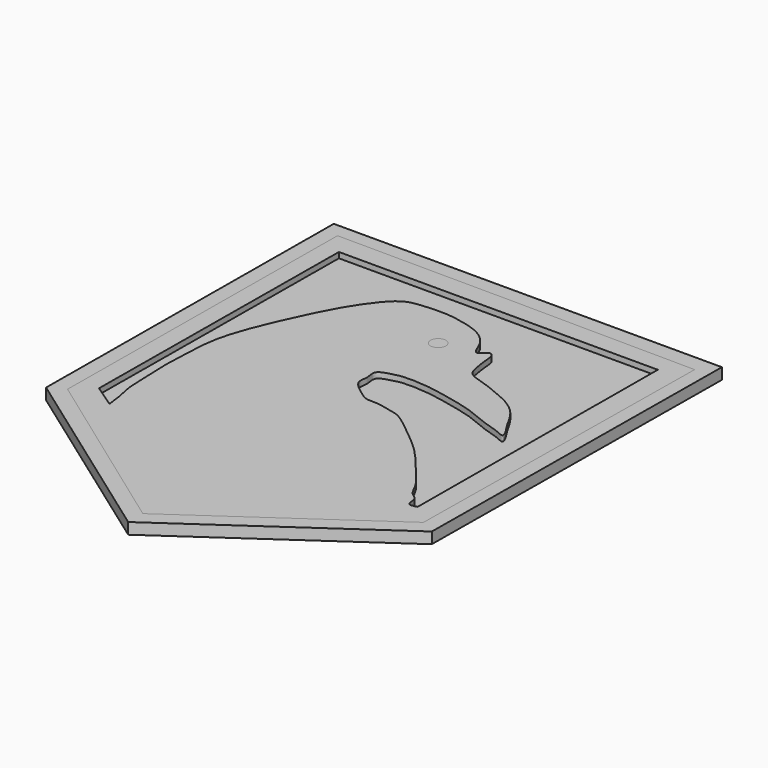
from build123d import *

# Parameters (mm, degrees)
F0_R          = 2.1795318168
F1_DEPTH      = 1.5875
F2_DEPTH      = 1.5875
F2_DEPTH_BACK = 1.5875
F3_DEPTH      = 1.5875


with BuildPart() as f1:
    # F0 (on Top) → F1 (new body)
    with BuildSketch(Plane.XY):
        Polygon((-50.3651574254, -33.8113792241), (0, -70.051394403), (51.246492301, -34.4496226662), (52.3734651506, 60.4217760265), (0, 60.8911067247), (-49.6614918586, 61.1687560072), align=None)
        with BuildLine():
            Line((-45.202549547, -29.1180983186), (-44.5427596569, 55.259168148))
            Line((-44.5427596569, 55.259168148), (46.0375323892, 55.259168148))
            Line((46.0375323892, 55.259168148), (45.5639190219, -29.4532653738))
            add(Edge.make_bspline(
                [(-38.6826857704, -33.5422889551), (-38.8005919951, -32.152333145), (-39.3190666894, -28.4001030407), (-40.458986062, -24.4648690423), (-40.3415890642, -18.1733101715), (-40.9183755939, -11.9130637335), (-40.4347817326, -4.5104804398), (-40.2323746663, 5.8855581119), (-35.4589579851, 18.3600766524), (-30.8090924237, 28.5143685896), (-26.1511375543, 37.3625815436), (-21.326285493, 43.6165630981), (-18.724708911, 45.6332968272), (-15.8838176848, 46.6922076089), (-8.1011849388, 47.0718973202), (-4.0858770947, 46.5594286988), (2.8225980893, 45.0105253753), (6.3144319535, 42.0973588461), (7.8287139265, 39.748347479), (9.2294731463, 35.6553229412), (10.8743136164, 37.6085550022), (12.0225097961, 38.4943340404), (13.3479022089, 37.5653191042), (13.3715800674, 34.3099889673), (13.9619682203, 31.5135151576), (14.49894751, 27.4127109388), (20.2259021037, 26.1834186317), (25.3837105646, 23.9174969132), (28.9575676961, 22.4410774738), (32.6550362587, 19.8369358132), (34.8754414, 16.739806202), (36.6022860384, 13.300207568), (38.2913501601, 11.1136102745), (39.3514316739, 8.4671586804), (36.3135586081, 10.2051615681), (31.5875439543, 11.3036863038), (25.9459551537, 14.122738383), (18.50436079, 15.7050278371), (11.5315427137, 17.3272768705), (3.9940245113, 17.5327188025), (2.0096945575, 16.8963246673), (-3.1049921049, 15.7997028655), (-1.5534355906, 12.0664641504), (-3.077392463, 8.8573955539), (2.32606889, 5.0937685161), (4.1247435993, 3.6892794075), (7.9351362929, 3.9540092163), (11.4034988126, 2.9180907782), (14.8640986212, 2.5445259727), (20.8627983724, -2.5114632381), (24.685658913, -5.5360118841), (29.0984890378, -9.5660449629), (32.8872286705, -14.2921612303), (36.205947736, -18.3030826101), (38.9297067869, -21.5772714854), (40.5229546306, -25.6735059901), (43.0468301685, -26.3037232438), (42.6762071907, -30.1945262959), (44.6285448232, -29.693134129), (45.5639190219, -29.4532653738)],
                knots=[0.0034531043, 0.0034531043, 0.0034531043, 0.0034531043, 0.0193582255, 0.0369631695, 0.0572415379, 0.0778968764, 0.1000700972, 0.1265340647, 0.1565723956, 0.1842511377, 0.2104853213, 0.2332896626, 0.2475332941, 0.2616890997, 0.2842362014, 0.3016358652, 0.3231224183, 0.3402928288, 0.3546668618, 0.369497947, 0.3801744787, 0.3897749477, 0.398650021, 0.413090828, 0.4275294859, 0.4428772181, 0.4619068661, 0.4816944601, 0.4978910362, 0.5150627718, 0.531186086, 0.5471742061, 0.5615520926, 0.5722665886, 0.5845055252, 0.6032397803, 0.6238994992, 0.6464272271, 0.6691449977, 0.6909603903, 0.7036668442, 0.7203035471, 0.7346529126, 0.7490034948, 0.7688164451, 0.7815841553, 0.7970220103, 0.8125935185, 0.8277858316, 0.8503798741, 0.8690626388, 0.8888735863, 0.9092721906, 0.9279561378, 0.9451270911, 0.9617809996, 0.9738625672, 0.9875494414, 1, 1, 1, 1], degree=3))
            Line((-38.6826857704, -33.5422889551), (-45.202549547, -29.1180983186))
        make_face(mode=Mode.SUBTRACT)
        with Locations((0, 34.8298922181)):
            Circle(F0_R, mode=Mode.SUBTRACT)
        with BuildLine():
            Line((46.0375323892, 55.259168148), (-44.5427596569, 55.259168148))
            Line((-44.5427596569, 55.259168148), (-45.202549547, -29.1180983186))
            Line((-45.202549547, -29.1180983186), (-38.6826857704, -33.5422889551))
            add(Edge.make_bspline(
                [(-38.6826857704, -33.5422889551), (-38.8005919951, -32.152333145), (-39.3190666894, -28.4001030407), (-40.458986062, -24.4648690423), (-40.3415890642, -18.1733101715), (-40.9183755939, -11.9130637335), (-40.4347817326, -4.5104804398), (-40.2323746663, 5.8855581119), (-35.4589579851, 18.3600766524), (-30.8090924237, 28.5143685896), (-26.1511375543, 37.3625815436), (-21.326285493, 43.6165630981), (-18.724708911, 45.6332968272), (-15.8838176848, 46.6922076089), (-8.1011849388, 47.0718973202), (-4.0858770947, 46.5594286988), (2.8225980893, 45.0105253753), (6.3144319535, 42.0973588461), (7.8287139265, 39.748347479), (9.2294731463, 35.6553229412), (10.8743136164, 37.6085550022), (12.0225097961, 38.4943340404), (13.3479022089, 37.5653191042), (13.3715800674, 34.3099889673), (13.9619682203, 31.5135151576), (14.49894751, 27.4127109388), (20.2259021037, 26.1834186317), (25.3837105646, 23.9174969132), (28.9575676961, 22.4410774738), (32.6550362587, 19.8369358132), (34.8754414, 16.739806202), (36.6022860384, 13.300207568), (38.2913501601, 11.1136102745), (39.3514316739, 8.4671586804), (36.3135586081, 10.2051615681), (31.5875439543, 11.3036863038), (25.9459551537, 14.122738383), (18.50436079, 15.7050278371), (11.5315427137, 17.3272768705), (3.9940245113, 17.5327188025), (2.0096945575, 16.8963246673), (-3.1049921049, 15.7997028655), (-1.5534355906, 12.0664641504), (-3.077392463, 8.8573955539), (2.32606889, 5.0937685161), (4.1247435993, 3.6892794075), (7.9351362929, 3.9540092163), (11.4034988126, 2.9180907782), (14.8640986212, 2.5445259727), (20.8627983724, -2.5114632381), (24.685658913, -5.5360118841), (29.0984890378, -9.5660449629), (32.8872286705, -14.2921612303), (36.205947736, -18.3030826101), (38.9297067869, -21.5772714854), (40.5229546306, -25.6735059901), (43.0468301685, -26.3037232438), (42.6762071907, -30.1945262959), (44.6285448232, -29.693134129), (45.5639190219, -29.4532653738)],
                knots=[0.0034531043, 0.0034531043, 0.0034531043, 0.0034531043, 0.0193582255, 0.0369631695, 0.0572415379, 0.0778968764, 0.1000700972, 0.1265340647, 0.1565723956, 0.1842511377, 0.2104853213, 0.2332896626, 0.2475332941, 0.2616890997, 0.2842362014, 0.3016358652, 0.3231224183, 0.3402928288, 0.3546668618, 0.369497947, 0.3801744787, 0.3897749477, 0.398650021, 0.413090828, 0.4275294859, 0.4428772181, 0.4619068661, 0.4816944601, 0.4978910362, 0.5150627718, 0.531186086, 0.5471742061, 0.5615520926, 0.5722665886, 0.5845055252, 0.6032397803, 0.6238994992, 0.6464272271, 0.6691449977, 0.6909603903, 0.7036668442, 0.7203035471, 0.7346529126, 0.7490034948, 0.7688164451, 0.7815841553, 0.7970220103, 0.8125935185, 0.8277858316, 0.8503798741, 0.8690626388, 0.8888735863, 0.9092721906, 0.9279561378, 0.9451270911, 0.9617809996, 0.9738625672, 0.9875494414, 1, 1, 1, 1], degree=3))
            Line((45.5639190219, -29.4532653738), (46.0375323892, 55.259168148))
        make_face()
    extrude(amount=-F1_DEPTH)

    # F0 (on Top) → F2 (join, two sides)
    with BuildSketch(Plane.XY) as f2_sk:
        Polygon((56.3627555966, 65.115056932), (0, 65.115056932), (-53.8851171732, 65.115056932), (-54.5891076326, -36.1580178142), (0, -75.2331282679), (55.4240942001, -36.7291085422), align=None)
        Polygon((51.246492301, -34.4496226662), (0, -70.051394403), (-50.3651574254, -33.8113792241), (-49.6614918586, 61.1687560072), (0, 60.8911067247), (52.3734651506, 60.4217760265), align=None, mode=Mode.SUBTRACT)
        with Locations((0, 34.8298922181)):
            Circle(F0_R)
    extrude(amount=F2_DEPTH)
    extrude(f2_sk.sketch, amount=-F2_DEPTH_BACK)


with BuildPart() as f3:
    # F0 (on Top) → F3 (new body)
    with BuildSketch(Plane.XY):
        Polygon((-50.3651574254, -33.8113792241), (0, -70.051394403), (51.246492301, -34.4496226662), (52.3734651506, 60.4217760265), (0, 60.8911067247), (-49.6614918586, 61.1687560072), align=None)
        with BuildLine():
            Line((-45.202549547, -29.1180983186), (-44.5427596569, 55.259168148))
            Line((-44.5427596569, 55.259168148), (46.0375323892, 55.259168148))
            Line((46.0375323892, 55.259168148), (45.5639190219, -29.4532653738))
            add(Edge.make_bspline(
                [(-38.6826857704, -33.5422889551), (-38.8005919951, -32.152333145), (-39.3190666894, -28.4001030407), (-40.458986062, -24.4648690423), (-40.3415890642, -18.1733101715), (-40.9183755939, -11.9130637335), (-40.4347817326, -4.5104804398), (-40.2323746663, 5.8855581119), (-35.4589579851, 18.3600766524), (-30.8090924237, 28.5143685896), (-26.1511375543, 37.3625815436), (-21.326285493, 43.6165630981), (-18.724708911, 45.6332968272), (-15.8838176848, 46.6922076089), (-8.1011849388, 47.0718973202), (-4.0858770947, 46.5594286988), (2.8225980893, 45.0105253753), (6.3144319535, 42.0973588461), (7.8287139265, 39.748347479), (9.2294731463, 35.6553229412), (10.8743136164, 37.6085550022), (12.0225097961, 38.4943340404), (13.3479022089, 37.5653191042), (13.3715800674, 34.3099889673), (13.9619682203, 31.5135151576), (14.49894751, 27.4127109388), (20.2259021037, 26.1834186317), (25.3837105646, 23.9174969132), (28.9575676961, 22.4410774738), (32.6550362587, 19.8369358132), (34.8754414, 16.739806202), (36.6022860384, 13.300207568), (38.2913501601, 11.1136102745), (39.3514316739, 8.4671586804), (36.3135586081, 10.2051615681), (31.5875439543, 11.3036863038), (25.9459551537, 14.122738383), (18.50436079, 15.7050278371), (11.5315427137, 17.3272768705), (3.9940245113, 17.5327188025), (2.0096945575, 16.8963246673), (-3.1049921049, 15.7997028655), (-1.5534355906, 12.0664641504), (-3.077392463, 8.8573955539), (2.32606889, 5.0937685161), (4.1247435993, 3.6892794075), (7.9351362929, 3.9540092163), (11.4034988126, 2.9180907782), (14.8640986212, 2.5445259727), (20.8627983724, -2.5114632381), (24.685658913, -5.5360118841), (29.0984890378, -9.5660449629), (32.8872286705, -14.2921612303), (36.205947736, -18.3030826101), (38.9297067869, -21.5772714854), (40.5229546306, -25.6735059901), (43.0468301685, -26.3037232438), (42.6762071907, -30.1945262959), (44.6285448232, -29.693134129), (45.5639190219, -29.4532653738)],
                knots=[0.0034531043, 0.0034531043, 0.0034531043, 0.0034531043, 0.0193582255, 0.0369631695, 0.0572415379, 0.0778968764, 0.1000700972, 0.1265340647, 0.1565723956, 0.1842511377, 0.2104853213, 0.2332896626, 0.2475332941, 0.2616890997, 0.2842362014, 0.3016358652, 0.3231224183, 0.3402928288, 0.3546668618, 0.369497947, 0.3801744787, 0.3897749477, 0.398650021, 0.413090828, 0.4275294859, 0.4428772181, 0.4619068661, 0.4816944601, 0.4978910362, 0.5150627718, 0.531186086, 0.5471742061, 0.5615520926, 0.5722665886, 0.5845055252, 0.6032397803, 0.6238994992, 0.6464272271, 0.6691449977, 0.6909603903, 0.7036668442, 0.7203035471, 0.7346529126, 0.7490034948, 0.7688164451, 0.7815841553, 0.7970220103, 0.8125935185, 0.8277858316, 0.8503798741, 0.8690626388, 0.8888735863, 0.9092721906, 0.9279561378, 0.9451270911, 0.9617809996, 0.9738625672, 0.9875494414, 1, 1, 1, 1], degree=3))
            Line((-38.6826857704, -33.5422889551), (-45.202549547, -29.1180983186))
        make_face(mode=Mode.SUBTRACT)
        with Locations((0, 34.8298922181)):
            Circle(F0_R, mode=Mode.SUBTRACT)
    extrude(amount=F3_DEPTH)


solid = Compound([f1.part, f3.part])
